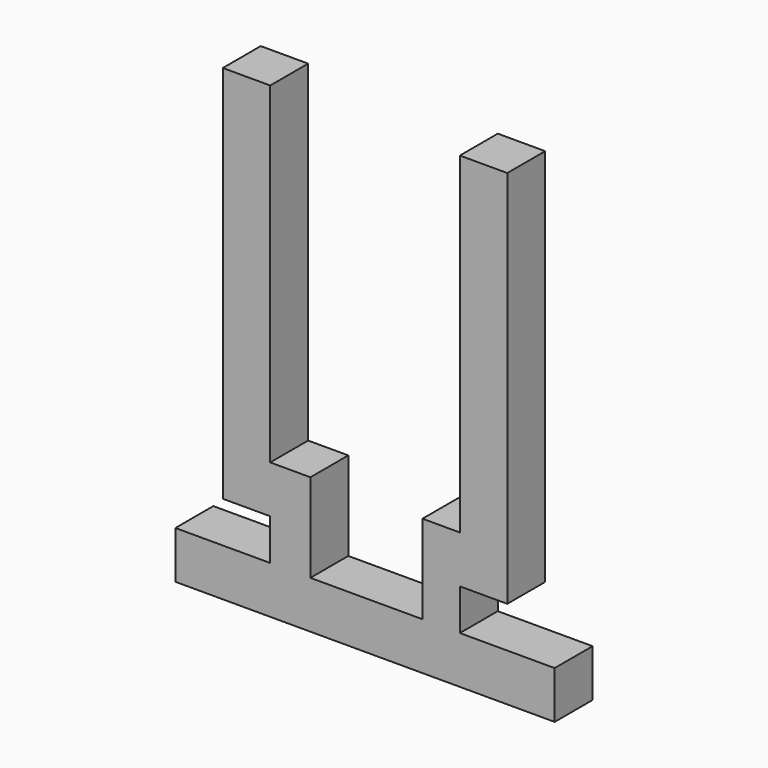
from build123d import *

# Parameters (mm, degrees)
F1_DEPTH = 10


with BuildPart() as f1:
    # F0 (on Front) → F1 (new body)
    with BuildSketch(Plane.XZ):
        Polygon((-17.288136, 10), (-17.288136, 0), (62.711864, 0), (62.711864, 10), (42.711864, 10), (34.830804, 10), (11.184005, 10), (2.711864, 10), align=None)
        Polygon((2.711864, 18.67337), (2.711864, 10), (11.184005, 10), (11.184005, 28.67337), (2.711864, 28.67337), align=None)
        Polygon((34.830804, 10), (42.711864, 10), (42.711864, 18.67337), (42.711864, 28.67337), (34.830804, 28.67337), align=None)
        Polygon((-7.288136, 18.67337), (2.711864, 18.67337), (2.711864, 28.67337), (2.711864, 98.67337), (-7.288136, 98.67337), align=None)
        Polygon((42.711864, 28.67337), (42.711864, 18.67337), (52.711864, 18.67337), (52.711864, 98.67337), (42.711864, 98.67337), align=None)
    extrude(amount=F1_DEPTH)


solid = f1.part
